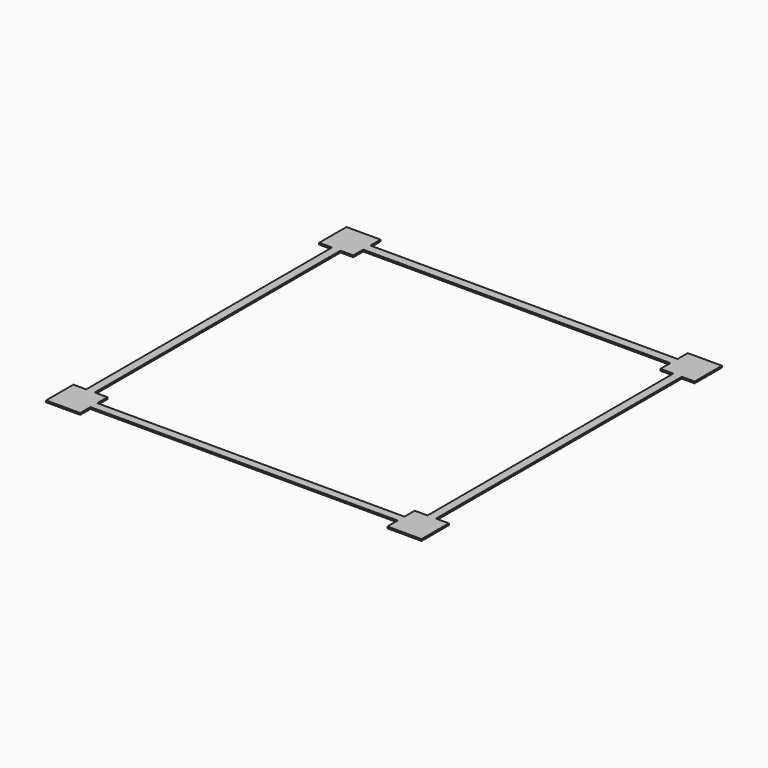
from build123d import *

# Parameters (mm, degrees)
SKETCH_W   = 20
SKETCH_H   = 20
SKETCH_W_2 = 180
SKETCH_H_2 = 5.214788
SKETCH_W_3 = 5
SKETCH_H_3 = 180
SKETCH_H_4 = 5
PAD_DEPTH  = 1


with BuildPart() as part:
    # Sketch (on XY_Plane of Origin) → Pad (new body)
    with BuildSketch(Plane.XY):
        with Locations((-100, 100)):
            Rectangle(SKETCH_W, SKETCH_H)
        with Locations((-100, -100)):
            Rectangle(SKETCH_W, SKETCH_H)
        with Locations((100, -100)):
            Rectangle(SKETCH_W, SKETCH_H)
        with Locations((100, 100)):
            Rectangle(SKETCH_W, SKETCH_H)
        with Locations((0, 99.892606)):
            Rectangle(SKETCH_W_2, SKETCH_H_2)
        with Locations((-100, 0)):
            Rectangle(SKETCH_W_3, SKETCH_H_3)
        with Locations((0, -100)):
            Rectangle(SKETCH_W_2, SKETCH_H_4)
        with Locations((100, 0)):
            Rectangle(SKETCH_W_3, SKETCH_H_3)
    extrude(amount=PAD_DEPTH)


solid = part.part
